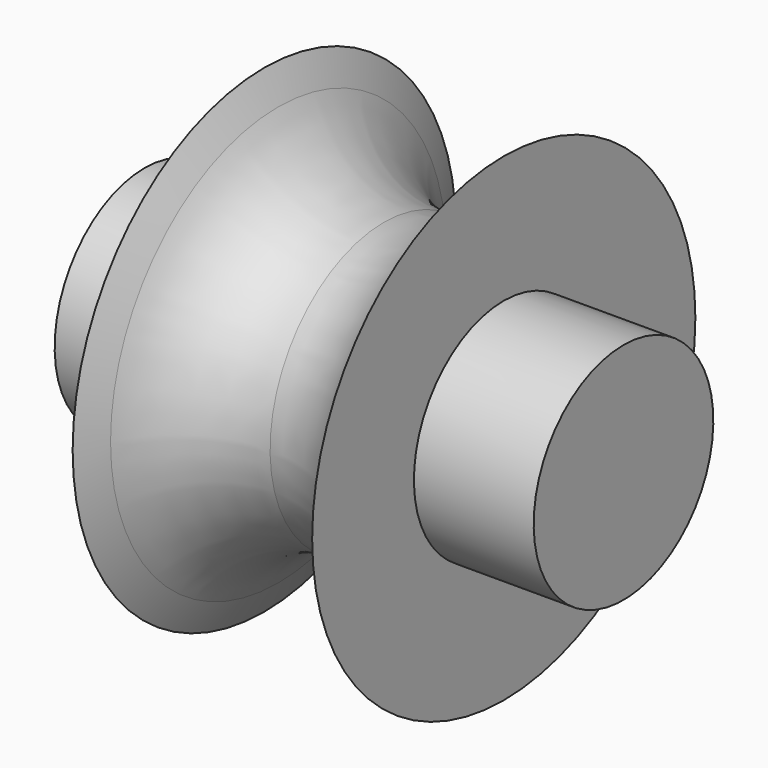
from build123d import *

# Parameters (mm, degrees)
F0_W = 12.7
F0_H = 11.90625


with BuildPart() as f1:
    # F0 (on Front) → F1 (revolve)
    with BuildSketch(Plane.XZ):
        with BuildLine():
            Line((-12.7, 11.90625), (-12.7, 0))
            Line((-12.7, 0), (12.7, 0))
            Line((12.7, 0), (12.7, 11.90625))
            Line((12.7, 11.90625), (12.7, 25.4))
            Line((12.7, 25.4), (11.219473, 22.225))
            ThreePointArc((11.219473, 22.225), (6.650816, 17.023914), (0, 15.102826))
            ThreePointArc((0, 15.102826), (-6.650816, 17.023914), (-11.219473, 22.225))
            Line((-11.219473, 22.225), (-12.7, 25.4))
            Line((-12.7, 25.4), (-12.7, 11.90625))
        make_face()
        with Locations((-19.05, 5.953125)):
            Rectangle(F0_W, F0_H)
        with Locations((19.05, 5.953125)):
            Rectangle(F0_W, F0_H)
    revolve(axis=Axis((0, 0, 0), (1, 0, 0)))


solid = f1.part
